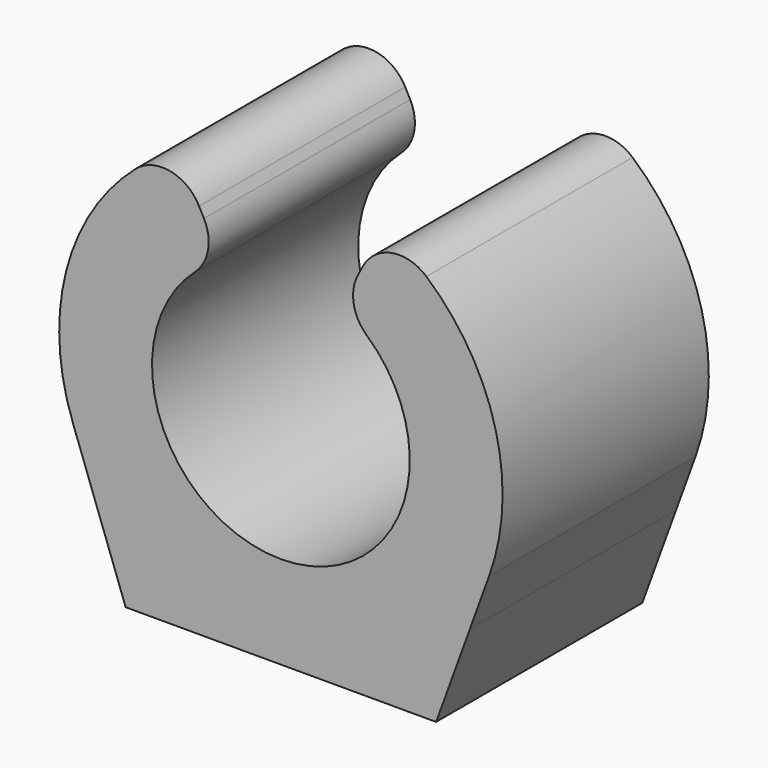
from build123d import *

# Parameters (mm, degrees)
F1_DEPTH = 2.5


with BuildPart() as f1:
    # F0 (on Front) → F1 (new body, symmetric)
    with BuildSketch(Plane.XZ):
        with BuildLine():
            ThreePointArc((0, -2.5), (-2.3354308974, -0.8920552244), (-1.6666666667, 1.8633899812))
            ThreePointArc((-1.6666666667, 1.8633899812), (-1.4126546867, 2.3179448999), (-1.49220925, 2.8325450666))
            Line((-1.49220925, 2.8325450666), (-1.5881221571, 3.0146090981))
            ThreePointArc((-1.5881221571, 3.0146090981), (-2.1485753305, 3.4280540352), (-2.8206930002, 3.2455648197))
            ThreePointArc((-2.8206930002, 3.2455648197), (-4.1629749971, 1.0768654389), (-4.0406782694, -1.4706866163))
            ThreePointArc((-4.0406782694, -1.4706866163), (-3.8045948422, -2.0037609855), (-3.4985711369, -2.5))
            Line((-3.4985711369, -2.5), (0, -2.5))
        make_face()
        with BuildLine():
            ThreePointArc((1.6666666667, 1.8633899812), (2.3354308974, -0.8920552244), (0, -2.5))
            Line((0, -2.5), (3.4985711369, -2.5))
            ThreePointArc((3.4985711369, -2.5), (3.8045948422, -2.0037609855), (4.0406782694, -1.4706866163))
            ThreePointArc((4.0406782694, -1.4706866163), (4.1629749971, 1.0768654389), (2.8206930002, 3.2455648197))
            ThreePointArc((2.8206930002, 3.2455648197), (2.1485753305, 3.4280540352), (1.5881221571, 3.0146090981))
            Line((1.5881221571, 3.0146090981), (1.49220925, 2.8325450666))
            ThreePointArc((1.49220925, 2.8325450666), (1.4126546867, 2.3179448999), (1.6666666667, 1.8633899812))
        make_face()
        with BuildLine():
            Line((-3.666038836, -2.5), (-3.4985711369, -2.5))
            ThreePointArc((-3.4985711369, -2.5), (-3.8045948422, -2.0037609855), (-4.0406782694, -1.4706866163))
            Line((-4.0406782694, -1.4706866163), (-3.666038836, -2.5))
        make_face()
        with BuildLine():
            ThreePointArc((0, -4.3), (-1.9672315573, -3.8236108589), (-3.4985711369, -2.5))
            Line((-3.4985711369, -2.5), (-3.666038836, -2.5))
            Line((-3.666038836, -2.5), (-3.0108924143, -4.3))
            Line((-3.0108924143, -4.3), (0, -4.3))
        make_face()
        with BuildLine():
            Line((3.666038836, -2.5), (3.4985711369, -2.5))
            ThreePointArc((3.4985711369, -2.5), (1.9672315573, -3.8236108589), (0, -4.3))
            Line((0, -4.3), (3.0108924143, -4.3))
            Line((3.0108924143, -4.3), (3.666038836, -2.5))
        make_face()
        with BuildLine():
            Line((3.4985711369, -2.5), (0, -2.5))
            Line((0, -2.5), (-3.4985711369, -2.5))
            ThreePointArc((-3.4985711369, -2.5), (-1.9672315573, -3.8236108589), (0, -4.3))
            ThreePointArc((0, -4.3), (1.9672315573, -3.8236108589), (3.4985711369, -2.5))
        make_face()
        with BuildLine():
            ThreePointArc((0, -4.3), (-1.9672315573, -3.8236108589), (-3.4985711369, -2.5))
            Line((-3.4985711369, -2.5), (-3.666038836, -2.5))
            Line((-3.666038836, -2.5), (-3.0108924143, -4.3))
            Line((-3.0108924143, -4.3), (0, -4.3))
        make_face()
        with BuildLine():
            ThreePointArc((4.0406782694, -1.4706866163), (3.8045948422, -2.0037609855), (3.4985711369, -2.5))
            Line((3.4985711369, -2.5), (3.666038836, -2.5))
            Line((3.666038836, -2.5), (4.0406782694, -1.4706866163))
        make_face()
    extrude(amount=F1_DEPTH, both=True)


solid = f1.part
